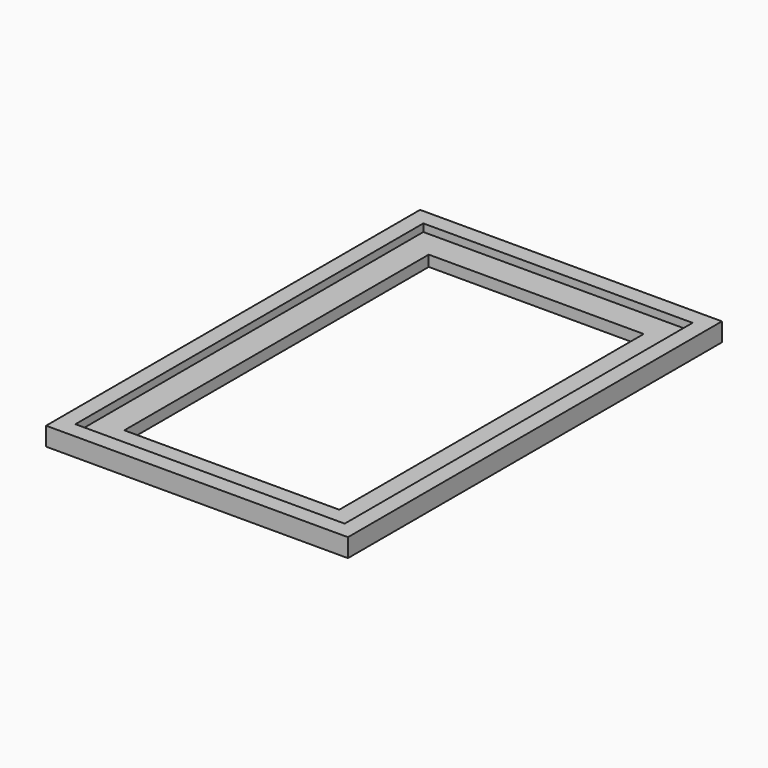
from build123d import *

# Parameters (mm, degrees)
F0_W     = 277.8125
F0_H     = 430.2125
F0_W_2   = 197.8125
F0_H_2   = 350.2125
F1_DEPTH = 17
F2_W     = 247.8125
F2_H     = 400.2125
F2_W_2   = 197.8125
F2_H_2   = 350.2125
F3_DEPTH = 7


with BuildPart() as f1:
    # F0 (on Top) → F1 (new body)
    with BuildSketch(Plane.XY):
        Rectangle(F0_W, F0_H)
        Rectangle(F0_W_2, F0_H_2, mode=Mode.SUBTRACT)
    extrude(amount=F1_DEPTH)

    # F2 (on face) → F3 (cut)
    with BuildSketch(Plane.XY.offset(17)):
        Rectangle(F2_W, F2_H)
        Rectangle(F2_W_2, F2_H_2, mode=Mode.SUBTRACT)
    extrude(amount=-F3_DEPTH, mode=Mode.SUBTRACT)


solid = f1.part
